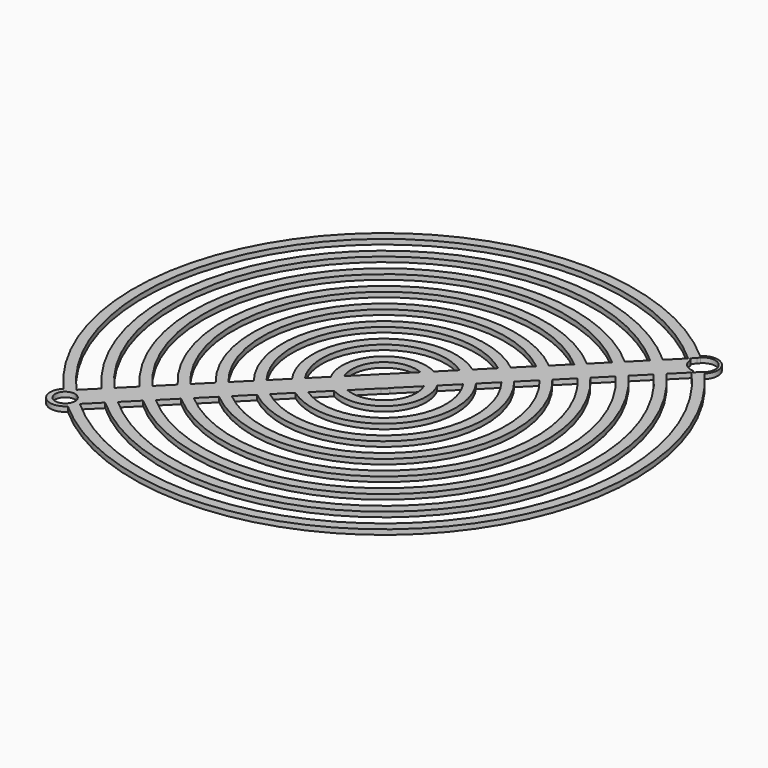
from build123d import *

# Parameters (mm, degrees)
F1_DEPTH = 1


with BuildPart() as f1:
    # F0 (on Top) → F1 (new body)
    with BuildSketch(Plane.XY):
        with BuildLine():
            ThreePointArc((-26.5033312148, 75.328119297), (-26.3426369832, 75.5700647059), (-26.1549656601, 75.7917394482))
            ThreePointArc((-26.1549656601, 75.7917394482), (-26.3407582213, 75.9591535849), (-26.5273775919, 76.1256455652))
            ThreePointArc((-26.5273775919, 76.1256455652), (-27.0404078404, 75.3832980995), (-27.3094776802, 74.5219728315))
            Line((-27.3094776802, 74.5219728315), (-26.5033312148, 75.328119297))
        make_face()
        with BuildLine():
            ThreePointArc((-26.5273775919, 76.1256455652), (-26.3407582213, 75.9591535849), (-26.1549656601, 75.7917394482))
            ThreePointArc((-26.1549656601, 75.7917394482), (-23.4159359992, 76.3896339956), (-21.8439837245, 74.0682707282))
            ThreePointArc((-21.8439837245, 74.0682707282), (-22.0463031767, 73.08304786), (-22.6205150045, 72.2572887926))
            ThreePointArc((-22.6205150045, 72.2572887926), (-22.4531008678, 72.0714962314), (-22.2866088875, 71.8848768608))
            ThreePointArc((-22.2866088875, 71.8848768608), (-22.222663381, 76.1895910717), (-26.5273775919, 76.1256455652))
        make_face()
        with BuildLine():
            ThreePointArc((-27.3094776802, 74.5219728315), (-27.0404078404, 75.3832980995), (-26.5273775919, 76.1256455652))
            ThreePointArc((-26.5273775919, 76.1256455652), (-95.7617686244, 74.0682707282), (-97.8191434614, 4.8338796957))
            ThreePointArc((-97.8191434614, 4.8338796957), (-97.0767959956, 5.3469099442), (-96.2154707277, 5.6159797841))
            Line((-96.2154707277, 5.6159797841), (-95.1382139669, 4.5507962212))
            ThreePointArc((-95.1382139669, 4.5507962212), (-94.3555468442, 4.0726462641), (-93.8686064767, 3.2954176717))
            Line((-93.8686064767, 3.2954176717), (-92.7913497158, 2.2302341088))
            ThreePointArc((-92.7913497158, 2.2302341088), (-93.0579769242, 1.3506741334), (-93.578374757, 0.5931109913))
            ThreePointArc((-93.578374757, 0.5931109913), (-24.3439837245, 2.6504858283), (-22.2866088875, 71.8848768608))
            ThreePointArc((-22.2866088875, 71.8848768608), (-23.0441720296, 71.3644790281), (-23.923732005, 71.0978518196))
            Line((-23.923732005, 71.0978518196), (-24.3892846301, 71.5686811963))
            ThreePointArc((-24.3892846301, 71.5686811963), (-26.1216842692, 72.310493503), (-26.8439250551, 74.0511434549))
            Line((-26.8439250551, 74.0511434549), (-27.3094776802, 74.5219728315))
        make_face()
        with BuildLine():
            Line((-26.9369928357, 68.0845909889), (-24.1047915084, 70.9167923162))
            ThreePointArc((-24.1047915084, 70.9167923162), (-25.7581972869, 4.0646993907), (-92.6102902124, 2.4112936122))
            Line((-92.6102902124, 2.4112936122), (-89.7780888851, 5.2434949395))
            ThreePointArc((-89.7780888851, 5.2434949395), (-28.5866244116, 6.8931265155), (-26.9369928357, 68.0845909889))
        make_face(mode=Mode.SUBTRACT)
        with BuildLine():
            Line((-31.1867690978, 63.8348147268), (-28.3533605154, 66.6682233092))
            ThreePointArc((-28.3533605154, 66.6682233092), (-30.000837974, 8.3073400778), (-88.3617212054, 6.6598626192))
            Line((-88.3617212054, 6.6598626192), (-85.528312623, 9.4932712016))
            ThreePointArc((-85.528312623, 9.4932712016), (-32.8292650988, 11.1357672026), (-31.1867690978, 63.8348147268))
        make_face(mode=Mode.SUBTRACT)
        with BuildLine():
            Line((-35.4391893016, 59.582394523), (-32.6038840682, 62.4176997565))
            ThreePointArc((-32.6038840682, 62.4176997565), (-34.2434786611, 12.5499807649), (-84.1111976526, 10.910386172))
            Line((-84.1111976526, 10.910386172), (-81.2758924192, 13.7456914054))
            ThreePointArc((-81.2758924192, 13.7456914054), (-37.0719057859, 15.3784078897), (-35.4391893016, 59.582394523))
        make_face(mode=Mode.SUBTRACT)
        with BuildLine():
            Line((-39.6960607966, 55.325523028), (-36.857521368, 58.1640624566))
            ThreePointArc((-36.857521368, 58.1640624566), (-38.4861193483, 16.7926214521), (-79.8575603528, 15.1640234718))
            Line((-79.8575603528, 15.1640234718), (-77.0190209242, 18.0025629004))
            ThreePointArc((-77.0190209242, 18.0025629004), (-41.314546473, 19.6210485768), (-39.6960607966, 55.325523028))
        make_face(mode=Mode.SUBTRACT)
        with BuildLine():
            Line((-43.9613317006, 51.060252124), (-41.1165769032, 53.9050069214))
            ThreePointArc((-41.1165769032, 53.9050069214), (-42.7287600354, 21.0352621392), (-75.5985048176, 19.423079007))
            Line((-75.5985048176, 19.423079007), (-72.7537500202, 22.2678338044))
            ThreePointArc((-72.7537500202, 22.2678338044), (-45.5571871601, 23.8636892639), (-43.9613317006, 51.060252124))
        make_face(mode=Mode.SUBTRACT)
        with BuildLine():
            Line((-48.2456252074, 46.7759586172), (-45.3863867802, 49.6351970444))
            ThreePointArc((-45.3863867802, 49.6351970444), (-46.9714007225, 25.2779028263), (-71.3286949406, 23.692888884))
            Line((-71.3286949406, 23.692888884), (-68.4694565134, 26.5521273112))
            ThreePointArc((-68.4694565134, 26.5521273112), (-49.7998278472, 28.1063299511), (-48.2456252074, 46.7759586172))
        make_face(mode=Mode.SUBTRACT)
        with BuildLine():
            Line((-52.5911868847, 42.4303969399), (-49.6828167626, 45.338767062))
            ThreePointArc((-49.6828167626, 45.338767062), (-51.2140414096, 29.5205435134), (-67.0322649582, 27.9893188664))
            Line((-67.0322649582, 27.9893188664), (-64.1238948361, 30.8976889885))
            ThreePointArc((-64.1238948361, 30.8976889885), (-54.0424685344, 32.3489706382), (-52.5911868847, 42.4303969399))
        make_face(mode=Mode.SUBTRACT)
        with BuildLine():
            Line((-62.6296408327, 32.391942992), (-58.858378332, 36.1632054926))
            ThreePointArc((-58.858378332, 36.1632054926), (-58.2851092215, 36.5916113253), (-57.8567033888, 37.1648804358))
            Line((-57.8567033888, 37.1648804358), (-54.0854408881, 40.9361429365))
            ThreePointArc((-54.0854408881, 40.9361429365), (-55.4566820967, 33.7631842005), (-62.6296408327, 32.391942992))
        make_face(mode=Mode.SUBTRACT)
        with BuildLine():
            ThreePointArc((-66.0288865818, 35.80256393), (-64.6490702522, 42.955572356), (-57.4960618262, 44.3353886856))
            Line((-57.4960618262, 44.3353886856), (-61.3127247433, 40.5187257685))
            ThreePointArc((-61.3127247433, 40.5187257685), (-61.8206431274, 40.1271452312), (-62.2122236647, 39.6192268471))
            Line((-62.2122236647, 39.6192268471), (-66.0288865818, 35.80256393))
        make_face(mode=Mode.SUBTRACT)
        with BuildLine():
            Line((-53.0905497015, 48.7409008103), (-56.0003327117, 45.8311178001))
            ThreePointArc((-56.0003327117, 45.8311178001), (-66.0632838145, 44.3697859183), (-67.5246156963, 34.3068348155))
            Line((-67.5246156963, 34.3068348155), (-70.4343987065, 31.3970518053))
            ThreePointArc((-70.4343987065, 31.3970518053), (-68.8917109393, 47.1982130431), (-53.0905497015, 48.7409008103))
        make_face(mode=Mode.SUBTRACT)
        with BuildLine():
            Line((-48.7931922432, 53.0382582685), (-51.6529601416, 50.1784903702))
            ThreePointArc((-51.6529601416, 50.1784903702), (-70.3059245017, 48.6124266055), (-71.8719882664, 29.9594622454))
            Line((-71.8719882664, 29.9594622454), (-74.7317561647, 27.099694347))
            ThreePointArc((-74.7317561647, 27.099694347), (-73.1343516264, 51.4408537302), (-48.7931922432, 53.0382582685))
        make_face(mode=Mode.SUBTRACT)
        with BuildLine():
            Line((-44.5229186825, 57.3085318293), (-47.367951823, 54.4634986888))
            ThreePointArc((-47.367951823, 54.4634986888), (-74.5485651888, 52.8550672926), (-76.156996585, 25.6744539268))
            Line((-76.156996585, 25.6744539268), (-79.0020297254, 22.8294207863))
            ThreePointArc((-79.0020297254, 22.8294207863), (-77.3769923135, 55.6834944173), (-44.5229186825, 57.3085318293))
        make_face(mode=Mode.SUBTRACT)
        with BuildLine():
            Line((-40.2635841262, 61.5678663856), (-43.1022953576, 58.7291551541))
            ThreePointArc((-43.1022953576, 58.7291551541), (-78.7912058759, 57.0977079797), (-80.4226530503, 21.4087974615))
            Line((-80.4226530503, 21.4087974615), (-83.2613642818, 18.57008623))
            ThreePointArc((-83.2613642818, 18.57008623), (-81.6196330006, 59.9261351044), (-40.2635841262, 61.5678663856))
        make_face(mode=Mode.SUBTRACT)
        with BuildLine():
            Line((-36.0097602775, 65.8216902342), (-38.8451821611, 62.9862683506))
            ThreePointArc((-38.8451821611, 62.9862683506), (-83.033846563, 61.3403486668), (-84.6797662468, 17.1516842649))
            Line((-84.6797662468, 17.1516842649), (-87.5151881304, 14.3162623813))
            ThreePointArc((-87.5151881304, 14.3162623813), (-85.8622736878, 64.1687757916), (-36.0097602775, 65.8216902342))
        make_face(mode=Mode.SUBTRACT)
        with BuildLine():
            Line((-31.7591031504, 70.0723473614), (-34.5925961296, 67.2388543822))
            ThreePointArc((-34.5925961296, 67.2388543822), (-87.2764872501, 65.5829893539), (-88.9323522784, 12.8990982334))
            Line((-88.9323522784, 12.8990982334), (-91.7658452575, 10.0656052542))
            ThreePointArc((-91.7658452575, 10.0656052542), (-90.1049143749, 68.4114164787), (-31.7591031504, 70.0723473614))
        make_face(mode=Mode.SUBTRACT)
        with BuildLine():
            Line((-27.51043376, 74.3210167518), (-30.3426989887, 71.4887515231))
            ThreePointArc((-30.3426989887, 71.4887515231), (-91.5191279373, 69.8256300411), (-93.1822494192, 8.6492010925))
            Line((-93.1822494192, 8.6492010925), (-96.014514648, 5.8169358638))
            ThreePointArc((-96.014514648, 5.8169358638), (-94.347555062, 72.6540571658), (-27.51043376, 74.3210167518))
        make_face(mode=Mode.SUBTRACT)
        with BuildLine():
            ThreePointArc((-96.2154707277, 5.6159797841), (-97.0767959956, 5.3469099442), (-97.8191434614, 4.8338796957))
            ThreePointArc((-97.8191434614, 4.8338796957), (-97.6254044752, 4.6168958993), (-97.4304188403, 4.4010316715))
            Line((-97.4304188403, 4.4010316715), (-96.2154707277, 5.6159797841))
        make_face()
        with BuildLine():
            ThreePointArc((-97.4304188403, 4.4010316715), (-97.6254044752, 4.6168958993), (-97.8191434614, 4.8338796957))
            ThreePointArc((-97.8191434614, 4.8338796957), (-97.8830889679, 0.5291654848), (-93.578374757, 0.5931109913))
            ThreePointArc((-93.578374757, 0.5931109913), (-93.8028699625, 0.7935970497), (-94.0261662639, 0.9954175607))
            Line((-94.0261662639, 0.9954175607), (-92.7913497158, 2.2302341088))
            Line((-92.7913497158, 2.2302341088), (-93.8686064767, 3.2954176717))
            ThreePointArc((-93.8686064767, 3.2954176717), (-93.7886588586, 2.9773464291), (-93.7617686244, 2.6504858283))
            ThreePointArc((-93.7617686244, 2.6504858283), (-97.3815076952, 1.4772657541), (-95.1382139669, 4.5507962212))
            Line((-95.1382139669, 4.5507962212), (-96.2154707277, 5.6159797841))
            Line((-96.2154707277, 5.6159797841), (-97.4304188403, 4.4010316715))
        make_face()
        with BuildLine():
            ThreePointArc((-23.923732005, 71.0978518196), (-23.0441720296, 71.3644790281), (-22.2866088875, 71.8848768608))
            ThreePointArc((-22.2866088875, 71.8848768608), (-22.4531008678, 72.0714962314), (-22.6205150045, 72.2572887926))
            ThreePointArc((-22.6205150045, 72.2572887926), (-22.8723434109, 72.04731185), (-23.1494858821, 71.8720979426))
            Line((-23.1494858821, 71.8720979426), (-23.923732005, 71.0978518196))
        make_face()
        with BuildLine():
            ThreePointArc((-94.0261662639, 0.9954175607), (-93.8028699625, 0.7935970497), (-93.578374757, 0.5931109913))
            ThreePointArc((-93.578374757, 0.5931109913), (-93.0579769242, 1.3506741334), (-92.7913497158, 2.2302341088))
            Line((-92.7913497158, 2.2302341088), (-94.0261662639, 0.9954175607))
        make_face()
        with BuildLine():
            ThreePointArc((-27.3094776802, 74.5219728315), (-27.0404078404, 75.3832980995), (-26.5273775919, 76.1256455652))
            ThreePointArc((-26.5273775919, 76.1256455652), (-95.7617686244, 74.0682707282), (-97.8191434614, 4.8338796957))
            ThreePointArc((-97.8191434614, 4.8338796957), (-97.0767959956, 5.3469099442), (-96.2154707277, 5.6159797841))
            Line((-96.2154707277, 5.6159797841), (-95.1382139669, 4.5507962212))
            ThreePointArc((-95.1382139669, 4.5507962212), (-94.3555468442, 4.0726462641), (-93.8686064767, 3.2954176717))
            Line((-93.8686064767, 3.2954176717), (-92.7913497158, 2.2302341088))
            ThreePointArc((-92.7913497158, 2.2302341088), (-93.0579769242, 1.3506741334), (-93.578374757, 0.5931109913))
            ThreePointArc((-93.578374757, 0.5931109913), (-24.3439837245, 2.6504858283), (-22.2866088875, 71.8848768608))
            ThreePointArc((-22.2866088875, 71.8848768608), (-23.0441720296, 71.3644790281), (-23.923732005, 71.0978518196))
            Line((-23.923732005, 71.0978518196), (-24.3892846301, 71.5686811963))
            ThreePointArc((-24.3892846301, 71.5686811963), (-26.1216842692, 72.310493503), (-26.8439250551, 74.0511434549))
            Line((-26.8439250551, 74.0511434549), (-27.3094776802, 74.5219728315))
        make_face()
        with BuildLine():
            Line((-26.9369928357, 68.0845909889), (-24.1047915084, 70.9167923162))
            ThreePointArc((-24.1047915084, 70.9167923162), (-25.7581972869, 4.0646993907), (-92.6102902124, 2.4112936122))
            Line((-92.6102902124, 2.4112936122), (-89.7780888851, 5.2434949395))
            ThreePointArc((-89.7780888851, 5.2434949395), (-28.5866244116, 6.8931265155), (-26.9369928357, 68.0845909889))
        make_face(mode=Mode.SUBTRACT)
        with BuildLine():
            Line((-31.1867690978, 63.8348147268), (-28.3533605154, 66.6682233092))
            ThreePointArc((-28.3533605154, 66.6682233092), (-30.000837974, 8.3073400778), (-88.3617212054, 6.6598626192))
            Line((-88.3617212054, 6.6598626192), (-85.528312623, 9.4932712016))
            ThreePointArc((-85.528312623, 9.4932712016), (-32.8292650988, 11.1357672026), (-31.1867690978, 63.8348147268))
        make_face(mode=Mode.SUBTRACT)
        with BuildLine():
            Line((-35.4391893016, 59.582394523), (-32.6038840682, 62.4176997565))
            ThreePointArc((-32.6038840682, 62.4176997565), (-34.2434786611, 12.5499807649), (-84.1111976526, 10.910386172))
            Line((-84.1111976526, 10.910386172), (-81.2758924192, 13.7456914054))
            ThreePointArc((-81.2758924192, 13.7456914054), (-37.0719057859, 15.3784078897), (-35.4391893016, 59.582394523))
        make_face(mode=Mode.SUBTRACT)
        with BuildLine():
            Line((-39.6960607966, 55.325523028), (-36.857521368, 58.1640624566))
            ThreePointArc((-36.857521368, 58.1640624566), (-38.4861193483, 16.7926214521), (-79.8575603528, 15.1640234718))
            Line((-79.8575603528, 15.1640234718), (-77.0190209242, 18.0025629004))
            ThreePointArc((-77.0190209242, 18.0025629004), (-41.314546473, 19.6210485768), (-39.6960607966, 55.325523028))
        make_face(mode=Mode.SUBTRACT)
        with BuildLine():
            Line((-43.9613317006, 51.060252124), (-41.1165769032, 53.9050069214))
            ThreePointArc((-41.1165769032, 53.9050069214), (-42.7287600354, 21.0352621392), (-75.5985048176, 19.423079007))
            Line((-75.5985048176, 19.423079007), (-72.7537500202, 22.2678338044))
            ThreePointArc((-72.7537500202, 22.2678338044), (-45.5571871601, 23.8636892639), (-43.9613317006, 51.060252124))
        make_face(mode=Mode.SUBTRACT)
        with BuildLine():
            Line((-48.2456252074, 46.7759586172), (-45.3863867802, 49.6351970444))
            ThreePointArc((-45.3863867802, 49.6351970444), (-46.9714007225, 25.2779028263), (-71.3286949406, 23.692888884))
            Line((-71.3286949406, 23.692888884), (-68.4694565134, 26.5521273112))
            ThreePointArc((-68.4694565134, 26.5521273112), (-49.7998278472, 28.1063299511), (-48.2456252074, 46.7759586172))
        make_face(mode=Mode.SUBTRACT)
        with BuildLine():
            Line((-52.5911868847, 42.4303969399), (-49.6828167626, 45.338767062))
            ThreePointArc((-49.6828167626, 45.338767062), (-51.2140414096, 29.5205435134), (-67.0322649582, 27.9893188664))
            Line((-67.0322649582, 27.9893188664), (-64.1238948361, 30.8976889885))
            ThreePointArc((-64.1238948361, 30.8976889885), (-54.0424685344, 32.3489706382), (-52.5911868847, 42.4303969399))
        make_face(mode=Mode.SUBTRACT)
        with BuildLine():
            Line((-62.6296408327, 32.391942992), (-58.858378332, 36.1632054926))
            ThreePointArc((-58.858378332, 36.1632054926), (-58.2851092215, 36.5916113253), (-57.8567033888, 37.1648804358))
            Line((-57.8567033888, 37.1648804358), (-54.0854408881, 40.9361429365))
            ThreePointArc((-54.0854408881, 40.9361429365), (-55.4566820967, 33.7631842005), (-62.6296408327, 32.391942992))
        make_face(mode=Mode.SUBTRACT)
        with BuildLine():
            ThreePointArc((-66.0288865818, 35.80256393), (-64.6490702522, 42.955572356), (-57.4960618262, 44.3353886856))
            Line((-57.4960618262, 44.3353886856), (-61.3127247433, 40.5187257685))
            ThreePointArc((-61.3127247433, 40.5187257685), (-61.8206431274, 40.1271452312), (-62.2122236647, 39.6192268471))
            Line((-62.2122236647, 39.6192268471), (-66.0288865818, 35.80256393))
        make_face(mode=Mode.SUBTRACT)
        with BuildLine():
            Line((-53.0905497015, 48.7409008103), (-56.0003327117, 45.8311178001))
            ThreePointArc((-56.0003327117, 45.8311178001), (-66.0632838145, 44.3697859183), (-67.5246156963, 34.3068348155))
            Line((-67.5246156963, 34.3068348155), (-70.4343987065, 31.3970518053))
            ThreePointArc((-70.4343987065, 31.3970518053), (-68.8917109393, 47.1982130431), (-53.0905497015, 48.7409008103))
        make_face(mode=Mode.SUBTRACT)
        with BuildLine():
            Line((-48.7931922432, 53.0382582685), (-51.6529601416, 50.1784903702))
            ThreePointArc((-51.6529601416, 50.1784903702), (-70.3059245017, 48.6124266055), (-71.8719882664, 29.9594622454))
            Line((-71.8719882664, 29.9594622454), (-74.7317561647, 27.099694347))
            ThreePointArc((-74.7317561647, 27.099694347), (-73.1343516264, 51.4408537302), (-48.7931922432, 53.0382582685))
        make_face(mode=Mode.SUBTRACT)
        with BuildLine():
            Line((-44.5229186825, 57.3085318293), (-47.367951823, 54.4634986888))
            ThreePointArc((-47.367951823, 54.4634986888), (-74.5485651888, 52.8550672926), (-76.156996585, 25.6744539268))
            Line((-76.156996585, 25.6744539268), (-79.0020297254, 22.8294207863))
            ThreePointArc((-79.0020297254, 22.8294207863), (-77.3769923135, 55.6834944173), (-44.5229186825, 57.3085318293))
        make_face(mode=Mode.SUBTRACT)
        with BuildLine():
            Line((-40.2635841262, 61.5678663856), (-43.1022953576, 58.7291551541))
            ThreePointArc((-43.1022953576, 58.7291551541), (-78.7912058759, 57.0977079797), (-80.4226530503, 21.4087974615))
            Line((-80.4226530503, 21.4087974615), (-83.2613642818, 18.57008623))
            ThreePointArc((-83.2613642818, 18.57008623), (-81.6196330006, 59.9261351044), (-40.2635841262, 61.5678663856))
        make_face(mode=Mode.SUBTRACT)
        with BuildLine():
            Line((-36.0097602775, 65.8216902342), (-38.8451821611, 62.9862683506))
            ThreePointArc((-38.8451821611, 62.9862683506), (-83.033846563, 61.3403486668), (-84.6797662468, 17.1516842649))
            Line((-84.6797662468, 17.1516842649), (-87.5151881304, 14.3162623813))
            ThreePointArc((-87.5151881304, 14.3162623813), (-85.8622736878, 64.1687757916), (-36.0097602775, 65.8216902342))
        make_face(mode=Mode.SUBTRACT)
        with BuildLine():
            Line((-31.7591031504, 70.0723473614), (-34.5925961296, 67.2388543822))
            ThreePointArc((-34.5925961296, 67.2388543822), (-87.2764872501, 65.5829893539), (-88.9323522784, 12.8990982334))
            Line((-88.9323522784, 12.8990982334), (-91.7658452575, 10.0656052542))
            ThreePointArc((-91.7658452575, 10.0656052542), (-90.1049143749, 68.4114164787), (-31.7591031504, 70.0723473614))
        make_face(mode=Mode.SUBTRACT)
        with BuildLine():
            Line((-27.51043376, 74.3210167518), (-30.3426989887, 71.4887515231))
            ThreePointArc((-30.3426989887, 71.4887515231), (-91.5191279373, 69.8256300411), (-93.1822494192, 8.6492010925))
            Line((-93.1822494192, 8.6492010925), (-96.014514648, 5.8169358638))
            ThreePointArc((-96.014514648, 5.8169358638), (-94.347555062, 72.6540571658), (-27.51043376, 74.3210167518))
        make_face(mode=Mode.SUBTRACT)
        with BuildLine():
            ThreePointArc((-27.3094776802, 74.5219728315), (-27.0404078404, 75.3832980995), (-26.5273775919, 76.1256455652))
            ThreePointArc((-26.5273775919, 76.1256455652), (-95.7617686244, 74.0682707282), (-97.8191434614, 4.8338796957))
            ThreePointArc((-97.8191434614, 4.8338796957), (-97.0767959956, 5.3469099442), (-96.2154707277, 5.6159797841))
            Line((-96.2154707277, 5.6159797841), (-95.1382139669, 4.5507962212))
            ThreePointArc((-95.1382139669, 4.5507962212), (-94.3555468442, 4.0726462641), (-93.8686064767, 3.2954176717))
            Line((-93.8686064767, 3.2954176717), (-92.7913497158, 2.2302341088))
            ThreePointArc((-92.7913497158, 2.2302341088), (-93.0579769242, 1.3506741334), (-93.578374757, 0.5931109913))
            ThreePointArc((-93.578374757, 0.5931109913), (-24.3439837245, 2.6504858283), (-22.2866088875, 71.8848768608))
            ThreePointArc((-22.2866088875, 71.8848768608), (-23.0441720296, 71.3644790281), (-23.923732005, 71.0978518196))
            Line((-23.923732005, 71.0978518196), (-24.3892846301, 71.5686811963))
            ThreePointArc((-24.3892846301, 71.5686811963), (-26.1216842692, 72.310493503), (-26.8439250551, 74.0511434549))
            Line((-26.8439250551, 74.0511434549), (-27.3094776802, 74.5219728315))
        make_face()
        with BuildLine():
            Line((-26.9369928357, 68.0845909889), (-24.1047915084, 70.9167923162))
            ThreePointArc((-24.1047915084, 70.9167923162), (-25.7581972869, 4.0646993907), (-92.6102902124, 2.4112936122))
            Line((-92.6102902124, 2.4112936122), (-89.7780888851, 5.2434949395))
            ThreePointArc((-89.7780888851, 5.2434949395), (-28.5866244116, 6.8931265155), (-26.9369928357, 68.0845909889))
        make_face(mode=Mode.SUBTRACT)
        with BuildLine():
            Line((-31.1867690978, 63.8348147268), (-28.3533605154, 66.6682233092))
            ThreePointArc((-28.3533605154, 66.6682233092), (-30.000837974, 8.3073400778), (-88.3617212054, 6.6598626192))
            Line((-88.3617212054, 6.6598626192), (-85.528312623, 9.4932712016))
            ThreePointArc((-85.528312623, 9.4932712016), (-32.8292650988, 11.1357672026), (-31.1867690978, 63.8348147268))
        make_face(mode=Mode.SUBTRACT)
        with BuildLine():
            Line((-35.4391893016, 59.582394523), (-32.6038840682, 62.4176997565))
            ThreePointArc((-32.6038840682, 62.4176997565), (-34.2434786611, 12.5499807649), (-84.1111976526, 10.910386172))
            Line((-84.1111976526, 10.910386172), (-81.2758924192, 13.7456914054))
            ThreePointArc((-81.2758924192, 13.7456914054), (-37.0719057859, 15.3784078897), (-35.4391893016, 59.582394523))
        make_face(mode=Mode.SUBTRACT)
        with BuildLine():
            Line((-39.6960607966, 55.325523028), (-36.857521368, 58.1640624566))
            ThreePointArc((-36.857521368, 58.1640624566), (-38.4861193483, 16.7926214521), (-79.8575603528, 15.1640234718))
            Line((-79.8575603528, 15.1640234718), (-77.0190209242, 18.0025629004))
            ThreePointArc((-77.0190209242, 18.0025629004), (-41.314546473, 19.6210485768), (-39.6960607966, 55.325523028))
        make_face(mode=Mode.SUBTRACT)
        with BuildLine():
            Line((-43.9613317006, 51.060252124), (-41.1165769032, 53.9050069214))
            ThreePointArc((-41.1165769032, 53.9050069214), (-42.7287600354, 21.0352621392), (-75.5985048176, 19.423079007))
            Line((-75.5985048176, 19.423079007), (-72.7537500202, 22.2678338044))
            ThreePointArc((-72.7537500202, 22.2678338044), (-45.5571871601, 23.8636892639), (-43.9613317006, 51.060252124))
        make_face(mode=Mode.SUBTRACT)
        with BuildLine():
            Line((-48.2456252074, 46.7759586172), (-45.3863867802, 49.6351970444))
            ThreePointArc((-45.3863867802, 49.6351970444), (-46.9714007225, 25.2779028263), (-71.3286949406, 23.692888884))
            Line((-71.3286949406, 23.692888884), (-68.4694565134, 26.5521273112))
            ThreePointArc((-68.4694565134, 26.5521273112), (-49.7998278472, 28.1063299511), (-48.2456252074, 46.7759586172))
        make_face(mode=Mode.SUBTRACT)
        with BuildLine():
            Line((-52.5911868847, 42.4303969399), (-49.6828167626, 45.338767062))
            ThreePointArc((-49.6828167626, 45.338767062), (-51.2140414096, 29.5205435134), (-67.0322649582, 27.9893188664))
            Line((-67.0322649582, 27.9893188664), (-64.1238948361, 30.8976889885))
            ThreePointArc((-64.1238948361, 30.8976889885), (-54.0424685344, 32.3489706382), (-52.5911868847, 42.4303969399))
        make_face(mode=Mode.SUBTRACT)
        with BuildLine():
            Line((-62.6296408327, 32.391942992), (-58.858378332, 36.1632054926))
            ThreePointArc((-58.858378332, 36.1632054926), (-58.2851092215, 36.5916113253), (-57.8567033888, 37.1648804358))
            Line((-57.8567033888, 37.1648804358), (-54.0854408881, 40.9361429365))
            ThreePointArc((-54.0854408881, 40.9361429365), (-55.4566820967, 33.7631842005), (-62.6296408327, 32.391942992))
        make_face(mode=Mode.SUBTRACT)
        with BuildLine():
            ThreePointArc((-66.0288865818, 35.80256393), (-64.6490702522, 42.955572356), (-57.4960618262, 44.3353886856))
            Line((-57.4960618262, 44.3353886856), (-61.3127247433, 40.5187257685))
            ThreePointArc((-61.3127247433, 40.5187257685), (-61.8206431274, 40.1271452312), (-62.2122236647, 39.6192268471))
            Line((-62.2122236647, 39.6192268471), (-66.0288865818, 35.80256393))
        make_face(mode=Mode.SUBTRACT)
        with BuildLine():
            Line((-53.0905497015, 48.7409008103), (-56.0003327117, 45.8311178001))
            ThreePointArc((-56.0003327117, 45.8311178001), (-66.0632838145, 44.3697859183), (-67.5246156963, 34.3068348155))
            Line((-67.5246156963, 34.3068348155), (-70.4343987065, 31.3970518053))
            ThreePointArc((-70.4343987065, 31.3970518053), (-68.8917109393, 47.1982130431), (-53.0905497015, 48.7409008103))
        make_face(mode=Mode.SUBTRACT)
        with BuildLine():
            Line((-48.7931922432, 53.0382582685), (-51.6529601416, 50.1784903702))
            ThreePointArc((-51.6529601416, 50.1784903702), (-70.3059245017, 48.6124266055), (-71.8719882664, 29.9594622454))
            Line((-71.8719882664, 29.9594622454), (-74.7317561647, 27.099694347))
            ThreePointArc((-74.7317561647, 27.099694347), (-73.1343516264, 51.4408537302), (-48.7931922432, 53.0382582685))
        make_face(mode=Mode.SUBTRACT)
        with BuildLine():
            Line((-44.5229186825, 57.3085318293), (-47.367951823, 54.4634986888))
            ThreePointArc((-47.367951823, 54.4634986888), (-74.5485651888, 52.8550672926), (-76.156996585, 25.6744539268))
            Line((-76.156996585, 25.6744539268), (-79.0020297254, 22.8294207863))
            ThreePointArc((-79.0020297254, 22.8294207863), (-77.3769923135, 55.6834944173), (-44.5229186825, 57.3085318293))
        make_face(mode=Mode.SUBTRACT)
        with BuildLine():
            Line((-40.2635841262, 61.5678663856), (-43.1022953576, 58.7291551541))
            ThreePointArc((-43.1022953576, 58.7291551541), (-78.7912058759, 57.0977079797), (-80.4226530503, 21.4087974615))
            Line((-80.4226530503, 21.4087974615), (-83.2613642818, 18.57008623))
            ThreePointArc((-83.2613642818, 18.57008623), (-81.6196330006, 59.9261351044), (-40.2635841262, 61.5678663856))
        make_face(mode=Mode.SUBTRACT)
        with BuildLine():
            Line((-36.0097602775, 65.8216902342), (-38.8451821611, 62.9862683506))
            ThreePointArc((-38.8451821611, 62.9862683506), (-83.033846563, 61.3403486668), (-84.6797662468, 17.1516842649))
            Line((-84.6797662468, 17.1516842649), (-87.5151881304, 14.3162623813))
            ThreePointArc((-87.5151881304, 14.3162623813), (-85.8622736878, 64.1687757916), (-36.0097602775, 65.8216902342))
        make_face(mode=Mode.SUBTRACT)
        with BuildLine():
            Line((-31.7591031504, 70.0723473614), (-34.5925961296, 67.2388543822))
            ThreePointArc((-34.5925961296, 67.2388543822), (-87.2764872501, 65.5829893539), (-88.9323522784, 12.8990982334))
            Line((-88.9323522784, 12.8990982334), (-91.7658452575, 10.0656052542))
            ThreePointArc((-91.7658452575, 10.0656052542), (-90.1049143749, 68.4114164787), (-31.7591031504, 70.0723473614))
        make_face(mode=Mode.SUBTRACT)
        with BuildLine():
            Line((-27.51043376, 74.3210167518), (-30.3426989887, 71.4887515231))
            ThreePointArc((-30.3426989887, 71.4887515231), (-91.5191279373, 69.8256300411), (-93.1822494192, 8.6492010925))
            Line((-93.1822494192, 8.6492010925), (-96.014514648, 5.8169358638))
            ThreePointArc((-96.014514648, 5.8169358638), (-94.347555062, 72.6540571658), (-27.51043376, 74.3210167518))
        make_face(mode=Mode.SUBTRACT)
    extrude(amount=F1_DEPTH)


solid = f1.part
